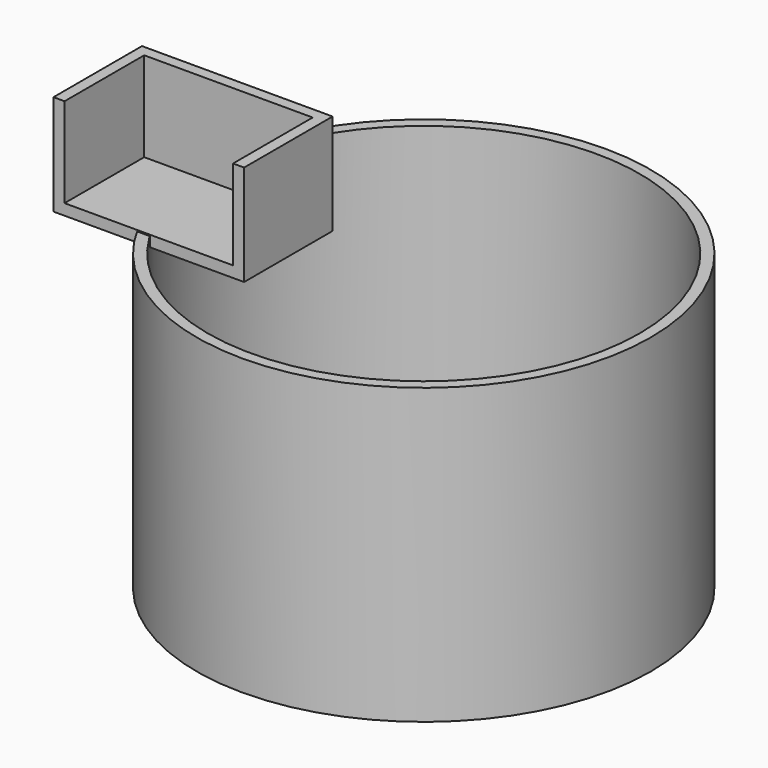
from build123d import *

# Parameters (mm, degrees)
F0_W     = 43.7709279358
F0_H     = 23.1423955411
F1_DEPTH = 25.4
F0_W_2   = 52.1444918122
F0_H_2   = 67.5410274416
F4_T     = -2.54
F4_2_T   = -2.54


with BuildPart() as f1:
    # F0 (on Front) → F1 (new body)
    with BuildSketch(Plane.XZ):
        with Locations((-39.3938366324, 35.8244562522)):
            Rectangle(F0_W, F0_H)
    extrude(amount=F1_DEPTH)

    # F4
    f4_openings = [f1.faces().sort_by_distance(p)[0] for p in [
        (-39.393837, -12.7, 47.395654),
        (-39.393837, -25.4, 35.824456),
    ]]
    offset(amount=F4_T, openings=f4_openings)


with BuildPart() as f1b:
    # F0 (on Front) → F1, piece 2 (new body)
    with BuildSketch(Plane.XZ):
        with Locations((29.4977977173, -7.2803152725)):
            Rectangle(F0_W_2, F0_H_2)
    extrude(amount=F1_DEPTH)


with BuildPart() as f3:
    # F0 (on Front) → F3 (revolve)
    with BuildSketch(Plane.XZ):
        with Locations((29.4977977173, -7.2803152725)):
            Rectangle(F0_W_2, F0_H_2)
    revolve(axis=Axis((3.4255518112, 0, -7.2803152725), (0, 0, -1)))

    # F4#2
    f4_2_openings = [f3.faces().sort_by_distance(p)[0] for p in [
        (3.425552, 0, 26.490198),
    ]]
    offset(amount=F4_2_T, openings=f4_2_openings)


solid = Compound([f1.part, f3.part])
